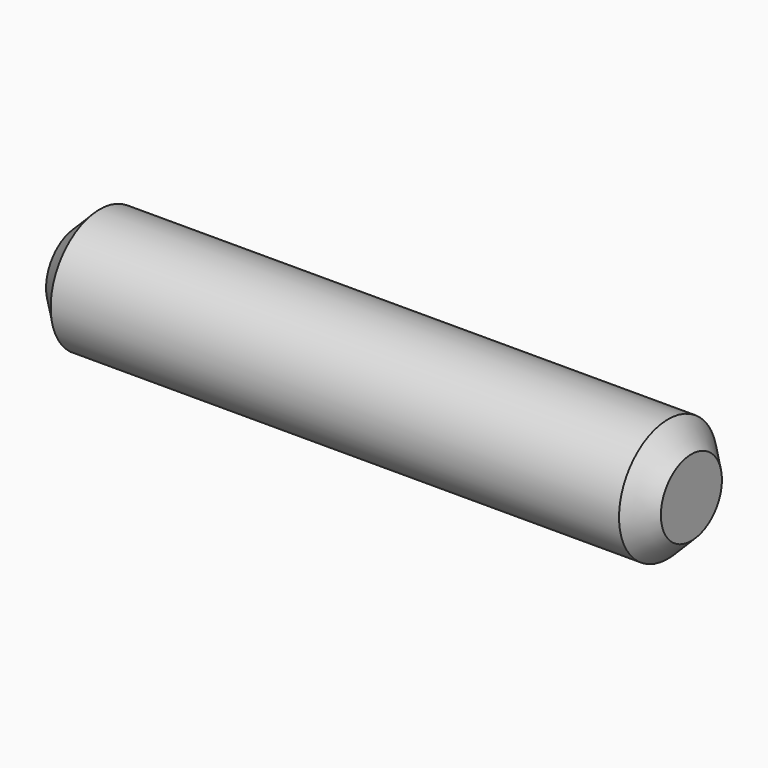
from build123d import *

# Parameters (mm, degrees)
F0_R     = 1.585
F1_DEPTH = 7.935
F2_SIZE  = 0.6


with BuildPart() as f1:
    # F0 (on Right) → F1 (new body, symmetric)
    with BuildSketch(Plane.YZ):
        Circle(F0_R)
    extrude(amount=F1_DEPTH, both=True)

    # F2
    f2_edges = [f1.edges().sort_by_distance(p)[0] for p in [
        (-7.935, -1.585, 0),
        (0, 1.585, 0),
        (7.935, -1.585, 0),
    ]]
    chamfer(f2_edges, length=F2_SIZE)


solid = f1.part
